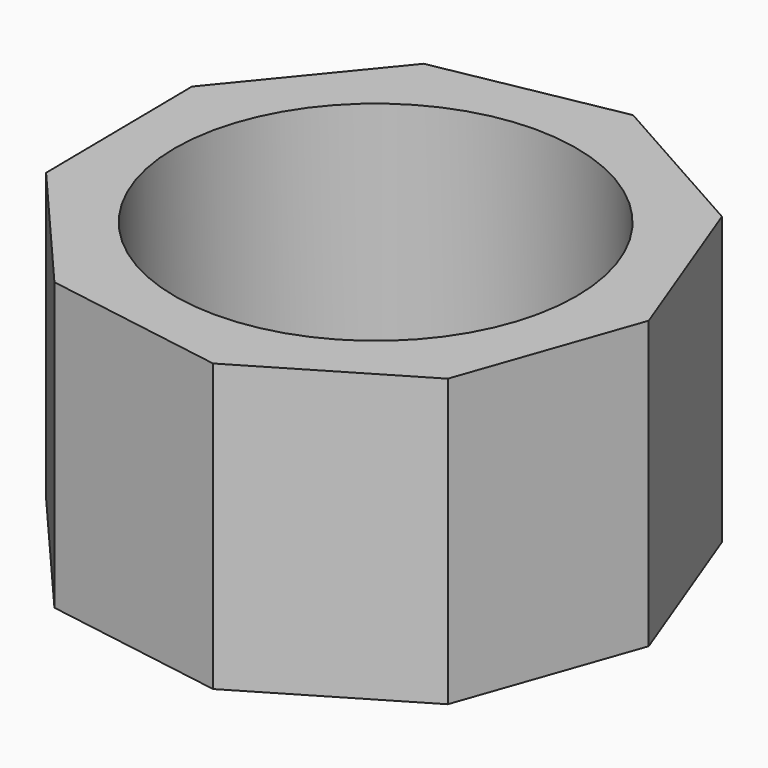
from build123d import *

# Parameters (mm, degrees)
F1_DEPTH = 59.944
F2_R     = 41.967916
F3_DEPTH = 83.566


with BuildPart() as f1:
    # F0 (on Top) → F1 (new body)
    with BuildSketch(Plane.XY):
        Polygon((10.482761, -55.606968), (43.773731, -35.85922), (56.582486, 0.667455), (42.915667, 36.881821), (9.16813, 55.838773), (-28.869276, 48.668142), (-53.398427, 18.725147), (-52.941861, -19.979553), (-27.71321, -49.335598), align=None)
    extrude(amount=F1_DEPTH)

    # F2 (on Top) → F3 (cut)
    with BuildSketch(Plane.XY):
        Circle(F2_R)
    extrude(amount=F3_DEPTH, mode=Mode.SUBTRACT)


solid = f1.part
